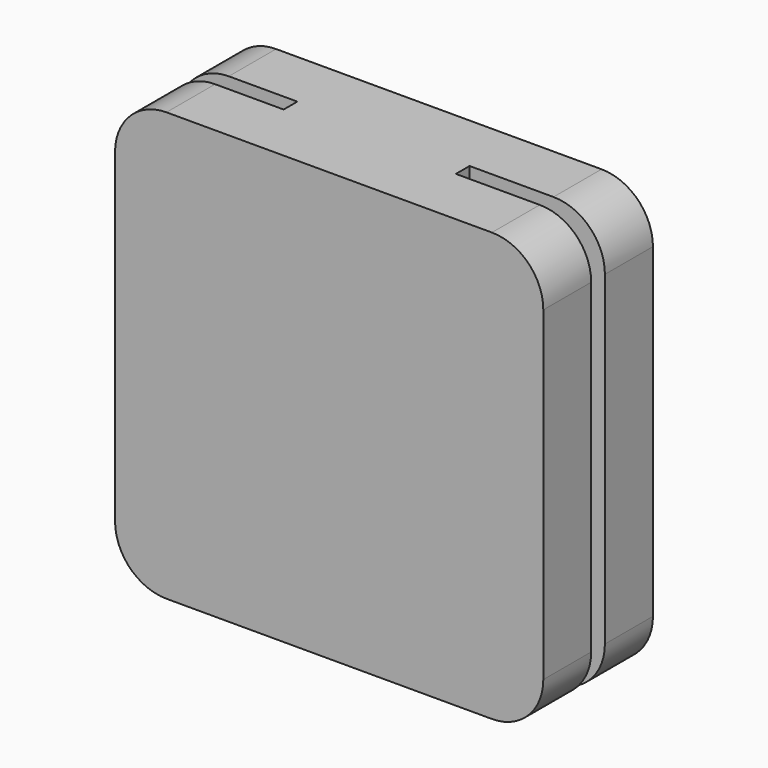
from build123d import *

# Parameters (mm, degrees)
F0_W     = 25
F0_H     = 25
F1_DEPTH = 8
F2_W     = 1
F2_H     = 25
F3_DEPTH = 7
F4_W     = 1
F4_H     = 25
F5_DEPTH = 7.9
F6_R     = 3


with BuildPart() as f1:
    # F0 (on Front) → F1 (new body)
    with BuildSketch(Plane.XZ):
        with Locations((-0.469491, 0.276955)):
            Rectangle(F0_W, F0_H)
    extrude(amount=F1_DEPTH)

    # F2 (on face) → F3 (cut)
    with BuildSketch(Plane(origin=(-12.969491, 0, 0), x_dir=(0, -1, 0), z_dir=(-1, 0, 0))):
        with Locations((3.948362, 0.276955)):
            Rectangle(F2_W, F2_H)
    extrude(amount=-F3_DEPTH, mode=Mode.SUBTRACT)

    # F4 (on face) → F5 (cut)
    with BuildSketch(Plane.YZ.offset(12.030509)):
        with Locations((-4.006481, 0.276955)):
            Rectangle(F4_W, F4_H)
    extrude(amount=-F5_DEPTH, mode=Mode.SUBTRACT)

    # F6
    f6_edges = [f1.edges().sort_by_distance(p)[0] for p in [
        (-12.969491, -1.724181, 12.776955),
        (-12.969491, -6.224181, 12.776955),
        (12.030509, -6.25324, 12.776955),
        (12.030509, -1.75324, 12.776955),
        (12.030509, -6.25324, -12.223045),
        (12.030509, -1.75324, -12.223045),
        (-12.969491, -1.724181, -12.223045),
        (-12.969491, -6.224181, -12.223045),
    ]]
    fillet(f6_edges, radius=F6_R)


solid = f1.part
